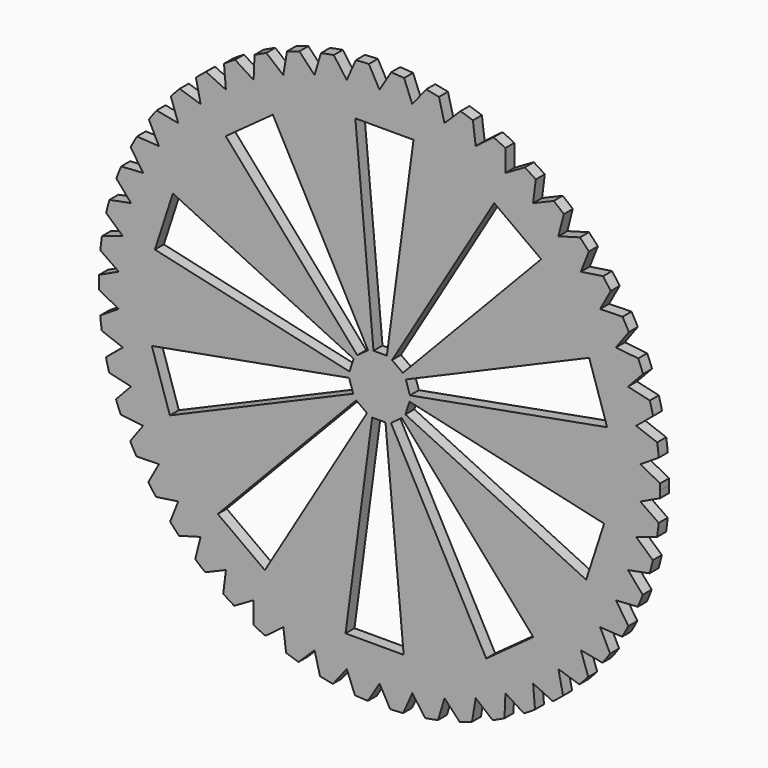
from build123d import *

# Parameters (mm, degrees)
F1_DEPTH = 3


with BuildPart() as f1:
    # F0 (on Front) → F1 (new body)
    with BuildSketch(Plane.XZ):
        with BuildLine():
            ThreePointArc((57.904952, 12.308414), (57.922478, 13.244387), (57.928321, 14.180507))
            ThreePointArc((57.928321, 14.180507), (57.923964, 14.988907), (57.910894, 15.797213))
            Line((57.910894, 15.797213), (52.594814, 18.568434))
            Line((52.594814, 18.568434), (57.548375, 21.720239))
            ThreePointArc((57.548375, 21.720239), (57.352824, 23.453765), (57.117007, 25.182273))
            Line((57.117007, 25.182273), (51.49552, 27.26536))
            Line((51.49552, 27.26536), (56.014994, 31.013159))
            ThreePointArc((56.014994, 31.013159), (55.603717, 32.708506), (55.15312, 34.393828))
            Line((55.15312, 34.393828), (49.31488, 35.755931))
            Line((49.31488, 35.755931), (53.328993, 40.040617))
            ThreePointArc((53.328993, 40.040617), (52.708476, 41.671049), (52.050205, 43.286608))
            Line((52.050205, 43.286608), (46.087284, 43.906245))
            Line((46.087284, 43.906245), (49.532731, 48.660247))
            ThreePointArc((49.532731, 48.660247), (48.71276, 50.200051), (47.857196, 51.720367))
            Line((47.857196, 51.720367), (41.863634, 51.587766))
            Line((41.863634, 51.587766), (44.686079, 56.73611))
            ThreePointArc((44.686079, 56.73611), (43.679584, 58.161002), (42.640221, 59.5621))
            Line((42.640221, 59.5621), (36.710539, 58.679352))
            Line((36.710539, 58.679352), (38.865469, 64.140846))
            ThreePointArc((38.865469, 64.140846), (37.688324, 65.428355), (36.481553, 66.688138))
            Line((36.481553, 66.688138), (30.709266, 65.069164))
            Line((30.709266, 65.069164), (32.162697, 70.757677))
            ThreePointArc((32.162697, 70.757677), (30.833467, 71.887499), (29.478318, 72.986099))
            Line((29.478318, 72.986099), (23.954459, 70.656432))
            Line((23.954459, 70.656432), (24.683469, 76.482253))
            ThreePointArc((24.683469, 76.482253), (23.223117, 77.436569), (21.740963, 78.356661))
            Line((21.740963, 78.356661), (16.552645, 75.353041))
            Line((16.552645, 75.353041), (16.545738, 81.224293))
            ThreePointArc((16.545738, 81.224293), (14.977293, 81.988053), (13.391508, 82.715127))
            Line((13.391508, 82.715127), (8.620556, 79.084923))
            Line((8.620556, 79.084923), (7.87784, 84.909012))
            ThreePointArc((7.87784, 84.909012), (6.226038, 85.470172), (4.561631, 85.992761))
            Line((4.561631, 85.992761), (0.283284, 81.793223))
            Line((0.283284, 81.793223), (-1.183526, 87.478301))
            ThreePointArc((-1.183526, 87.478301), (-2.892635, 87.82801), (-4.609416, 88.137873))
            Line((-4.609416, 88.137873), (-8.327685, 83.43523))
            Line((-8.327685, 83.43523), (-10.495459, 88.891639))
            ThreePointArc((-10.495459, 88.891639), (-12.234921, 89.024383), (-13.977, 89.116632))
            Line((-13.977, 89.116632), (-17.076552, 83.985049))
            Line((-17.076552, 83.985049), (-19.911102, 89.126738))
            ThreePointArc((-19.911102, 89.126738), (-21.653485, 89.040423), (-23.39339, 88.913605))
            Line((-23.39339, 88.913605), (-25.825343, 83.434009))
            Line((-25.825343, 83.434009), (-29.281966, 88.179891))
            ThreePointArc((-29.281966, 88.179891), (-30.999792, 87.875877), (-32.710082, 87.531992))
            Line((-32.710082, 87.531992), (-34.436083, 81.790799))
            Line((-34.436083, 81.790799), (-38.460266, 86.066029))
            ThreePointArc((-38.460266, 86.066029), (-40.126444, 85.549112), (-41.780147, 84.993582))
            Line((-41.780147, 84.993582), (-42.772976, 79.081335))
            Line((-42.772976, 79.081335), (-47.301256, 82.81849))
            ThreePointArc((-47.301256, 82.81849), (-48.889508, 82.096821), (-50.460545, 81.338407))
            Line((-50.460545, 81.338407), (-50.704545, 75.348346))
            Line((-50.704545, 75.348346), (-55.665507, 78.488488))
            ThreePointArc((-55.665507, 78.488488), (-57.150786, 77.573449), (-58.614381, 76.624113))
            Line((-58.614381, 76.624113), (-58.105702, 70.650703))
            Line((-58.105702, 70.650703), (-63.42111, 73.144311))
            ThreePointArc((-63.42111, 73.144311), (-64.779993, 72.050333), (-66.113063, 70.925045))
            Line((-66.113063, 70.925045), (-64.859729, 65.062492))
            Line((-64.859729, 65.062492), (-70.445755, 66.87024))
            ThreePointArc((-70.445755, 66.87024), (-71.656811, 65.614575), (-72.838334, 64.331082))
            Line((-72.838334, 64.331082), (-70.86011, 58.671842))
            Line((-70.86011, 58.671842), (-76.62866, 59.76522))
            ThreePointArc((-76.62866, 59.76522), (-77.672789, 58.367671), (-78.684131, 56.946215))
            Line((-78.684131, 56.946215), (-76.012215, 51.579536))
            Line((-76.012215, 51.579536), (-81.872315, 51.941302))
            ThreePointArc((-81.872315, 51.941302), (-82.733051, 50.423909), (-83.558263, 48.886906))
            Line((-83.558263, 48.886906), (-80.234793, 43.897426))
            Line((-80.234793, 43.897426), (-86.094025, 43.521874))
            ThreePointArc((-86.094025, 43.521874), (-86.757795, 41.908567), (-87.383862, 40.280258))
            Line((-87.383862, 40.280258), (-83.46125, 35.746662))
            Line((-83.46125, 35.746662), (-89.227211, 34.639714))
            ThreePointArc((-89.227211, 34.639714), (-89.683546, 32.955936), (-90.100595, 31.262))
            Line((-90.100595, 31.262), (-85.640705, 27.255787))
            Line((-85.640705, 27.255787), (-91.222462, 25.434901))
            ThreePointArc((-91.222462, 25.434901), (-91.464165, 23.707206), (-91.665619, 21.974357))
            Line((-91.665619, 21.974357), (-86.738785, 18.558706))
            Line((-86.738785, 18.558706), (-92.048311, 16.0526))
            ThreePointArc((-92.048311, 16.0526), (-92.07157, 14.308235), (-92.054252, 12.563801))
            Line((-92.054252, 12.563801), (-86.738173, 9.792579))
            Line((-86.738173, 9.792579), (-91.691733, 6.640774))
            ThreePointArc((-91.691733, 6.640774), (-91.496183, 4.907249), (-91.260365, 3.17874))
            Line((-91.260365, 3.17874), (-85.638878, 1.095653))
            Line((-85.638878, 1.095653), (-90.158353, -2.652146))
            ThreePointArc((-90.158353, -2.652146), (-89.747076, -4.347493), (-89.296478, -6.032815))
            Line((-89.296478, -6.032815), (-83.458238, -7.394918))
            Line((-83.458238, -7.394918), (-87.472352, -11.679604))
            ThreePointArc((-87.472352, -11.679604), (-86.851834, -13.310036), (-86.193563, -14.925595))
            Line((-86.193563, -14.925595), (-80.230643, -15.545232))
            Line((-80.230643, -15.545232), (-83.67609, -20.299233))
            ThreePointArc((-83.67609, -20.299233), (-82.856118, -21.839038), (-82.000555, -23.359354))
            Line((-82.000555, -23.359354), (-76.006993, -23.226752))
            Line((-76.006993, -23.226752), (-78.829437, -28.375097))
            ThreePointArc((-78.829437, -28.375097), (-77.822943, -29.799989), (-76.783579, -31.201087))
            Line((-76.783579, -31.201087), (-70.853897, -30.318338))
            Line((-70.853897, -30.318338), (-73.008827, -35.779832))
            ThreePointArc((-73.008827, -35.779832), (-71.831683, -37.067342), (-70.624911, -38.327125))
            Line((-70.624911, -38.327125), (-64.852624, -36.708151))
            Line((-64.852624, -36.708151), (-66.306055, -42.396664))
            ThreePointArc((-66.306055, -42.396664), (-64.976825, -43.526486), (-63.621677, -44.625086))
            Line((-63.621677, -44.625086), (-58.097817, -42.295419))
            Line((-58.097817, -42.295419), (-58.826828, -48.12124))
            ThreePointArc((-58.826828, -48.12124), (-57.366475, -49.075556), (-55.884321, -49.995648))
            Line((-55.884321, -49.995648), (-50.696004, -46.992028))
            Line((-50.696004, -46.992028), (-50.689097, -52.863279))
            ThreePointArc((-50.689097, -52.863279), (-49.120652, -53.62704), (-47.534867, -54.354114))
            Line((-47.534867, -54.354114), (-42.763914, -50.72391))
            Line((-42.763914, -50.72391), (-42.021199, -56.547999))
            ThreePointArc((-42.021199, -56.547999), (-40.369397, -57.109159), (-38.70499, -57.631748))
            Line((-38.70499, -57.631748), (-34.426643, -53.43221))
            Line((-34.426643, -53.43221), (-32.959832, -59.117287))
            ThreePointArc((-32.959832, -59.117287), (-31.250723, -59.466997), (-29.533943, -59.776859))
            Line((-29.533943, -59.776859), (-25.815673, -55.074217))
            Line((-25.815673, -55.074217), (-23.6479, -60.530626))
            ThreePointArc((-23.6479, -60.530626), (-21.908437, -60.663369), (-20.166358, -60.755619))
            Line((-20.166358, -60.755619), (-17.066806, -55.624036))
            Line((-17.066806, -55.624036), (-14.232257, -60.765725))
            ThreePointArc((-14.232257, -60.765725), (-12.489873, -60.67941), (-10.749969, -60.552592))
            Line((-10.749969, -60.552592), (-8.318015, -55.072996))
            Line((-8.318015, -55.072996), (-4.861393, -59.818878))
            ThreePointArc((-4.861393, -59.818878), (-3.143567, -59.514864), (-1.433276, -59.170978))
            Line((-1.433276, -59.170978), (0.292725, -53.429786))
            Line((0.292725, -53.429786), (4.316908, -57.705016))
            ThreePointArc((4.316908, -57.705016), (5.983085, -57.188099), (7.636789, -56.632569))
            Line((7.636789, -56.632569), (8.629618, -50.720322))
            Line((8.629618, -50.720322), (13.157897, -54.457476))
            ThreePointArc((13.157897, -54.457476), (14.746149, -53.735808), (16.317187, -52.977394))
            Line((16.317187, -52.977394), (16.561186, -46.987333))
            Line((16.561186, -46.987333), (21.522148, -50.127475))
            ThreePointArc((21.522148, -50.127475), (23.007428, -49.212436), (24.471023, -48.263099))
            Line((24.471023, -48.263099), (23.962344, -42.28969))
            Line((23.962344, -42.28969), (29.277752, -44.783298))
            ThreePointArc((29.277752, -44.783298), (30.636634, -43.68932), (31.969705, -42.564032))
            Line((31.969705, -42.564032), (30.716371, -36.701479))
            Line((30.716371, -36.701479), (36.302397, -38.509227))
            ThreePointArc((36.302397, -38.509227), (37.513453, -37.253562), (38.694976, -35.970069))
            Line((38.694976, -35.970069), (36.716752, -30.310829))
            Line((36.716752, -30.310829), (42.485301, -31.404207))
            ThreePointArc((42.485301, -31.404207), (43.529431, -30.006658), (44.540773, -28.585201))
            Line((44.540773, -28.585201), (41.868857, -23.218523))
            Line((41.868857, -23.218523), (47.728956, -23.580289))
            ThreePointArc((47.728956, -23.580289), (48.589693, -22.062896), (49.414904, -20.525893))
            Line((49.414904, -20.525893), (46.091434, -15.536413))
            Line((46.091434, -15.536413), (51.950666, -15.16086))
            ThreePointArc((51.950666, -15.16086), (52.614436, -13.547553), (53.240503, -11.919244))
            Line((53.240503, -11.919244), (49.317892, -7.385649))
            Line((49.317892, -7.385649), (55.083853, -6.278701))
            ThreePointArc((55.083853, -6.278701), (55.540188, -4.594923), (55.957237, -2.900987))
            Line((55.957237, -2.900987), (51.497346, 1.105227))
            Line((51.497346, 1.105227), (57.079104, 2.926112))
            ThreePointArc((57.079104, 2.926112), (57.320807, 4.653807), (57.522261, 6.386656))
            Line((57.522261, 6.386656), (52.595426, 9.802307))
            Line((52.595426, 9.802307), (57.904952, 12.308414))
        make_face()
        Polygon((-20.424678, 6.841615), (-47.699014, -38.95862), (-60.268681, -29.826223), (-23.305226, 8.934456), align=None, mode=Mode.SUBTRACT)
        Polygon((-15.47062, 6.272376), (-10.615319, -46.812246), (-26.152281, -46.812246), (-19.031174, 6.272376), align=None, mode=Mode.SUBTRACT)
        Polygon((-24.098004, 10.214062), (-73.084109, -10.807654), (-77.885294, 3.968875), (-25.198276, 13.60035), align=None, mode=Mode.SUBTRACT)
        Polygon((-11.128113, 8.723773), (24.002266, -31.368713), (11.4326, -40.50111), (-14.008661, 6.630932), align=None, mode=Mode.SUBTRACT)
        Polygon((-9.055845, 13.259457), (42.931, 1.473073), (38.129815, -13.303456), (-10.156117, 9.87317), align=None, mode=Mode.SUBTRACT)
        Polygon((-25.087513, 15.101556), (-77.074359, 26.88794), (-72.273173, 41.664469), (-23.987242, 18.487843), align=None, mode=Mode.SUBTRACT)
        Polygon((-23.015246, 19.63724), (-58.145625, 59.729726), (-45.575958, 68.862123), (-20.134698, 21.730081), align=None, mode=Mode.SUBTRACT)
        Polygon((-10.045354, 18.146951), (38.94075, 39.168667), (43.741935, 24.392138), (-8.945083, 14.760664), align=None, mode=Mode.SUBTRACT)
        Polygon((-18.672738, 22.088638), (-23.528039, 75.173259), (-7.991077, 75.173259), (-15.112185, 22.088638), align=None, mode=Mode.SUBTRACT)
        Polygon((-13.71868, 21.519398), (13.555656, 67.319633), (26.125322, 58.187236), (-10.838132, 19.426557), align=None, mode=Mode.SUBTRACT)
    extrude(amount=F1_DEPTH)


solid = f1.part
